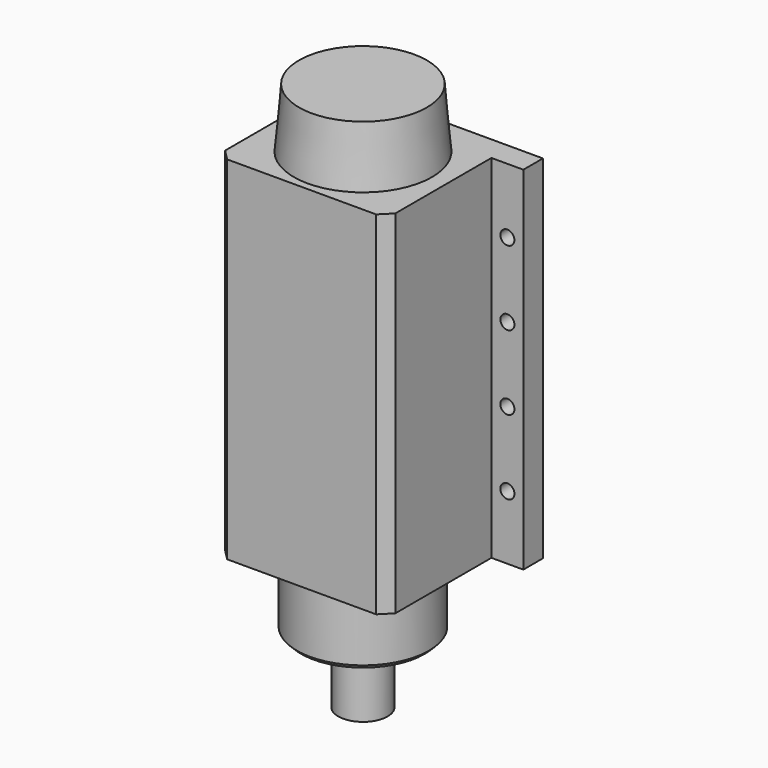
from build123d import *

# Parameters (mm, degrees)
F1_DEPTH = 82.75
F2_SIZE  = 5
F3_R     = 31
F4_DEPTH = 33
F5_SIZE  = 2
F6_R     = 11.6
F7_DEPTH = 31.5
F8_R     = 32.5
F9_DEPTH = 28
F9_TAPER = 5
F11_D    = 6.6


with BuildPart() as f1:
    # F0 (on Top) → F1 (new body, symmetric)
    with BuildSketch(Plane.XY):
        Polygon((0, 37), (-55, 37), (-55, 25.5), (-40, 25.5), (-40, -36), (0, -36), (40, -36), (40, 25.5), (55, 25.5), (55, 37), align=None)
    extrude(amount=F1_DEPTH, both=True)

    # F2
    f2_edges = [f1.edges().sort_by_distance(p)[0] for p in [
        (40, -36, 0),
        (-40, -36, 0),
    ]]
    chamfer(f2_edges, length=F2_SIZE)

    # F3 (on face) → F4 (join)
    with BuildSketch(Plane(origin=(0, 0, -82.75), x_dir=(1, 0, 0), z_dir=(0, 0, -1))):
        Circle(F3_R)
    extrude(amount=F4_DEPTH)

    # F5
    f5_edges = [f1.edges().sort_by_distance(p)[0] for p in [
        (-31, 0, -115.75),
    ]]
    chamfer(f5_edges, length=F5_SIZE)

    # F6 (on face) → F7 (join)
    with BuildSketch(Plane(origin=(0, 0, -115.75), x_dir=(1, 0, 0), z_dir=(0, 0, -1))):
        Circle(F6_R)
    extrude(amount=F7_DEPTH)

    # F8 (on face) → F9 (join)
    with BuildSketch(Plane.XY.offset(82.75)):
        Circle(F8_R)
    extrude(amount=F9_DEPTH, taper=F9_TAPER)

    # F11 (through all)
    with Locations(Plane.XZ.offset(-25.5)):
        with Locations((-47.5, 52.25), (-47.5, 17.25), (-47.5, -17.75), (-47.5, -52.75), (47.5, 52.25), (47.5, 17.25), (47.5, -17.75), (47.5, -52.75)):
            Hole(F11_D / 2)


solid = f1.part
